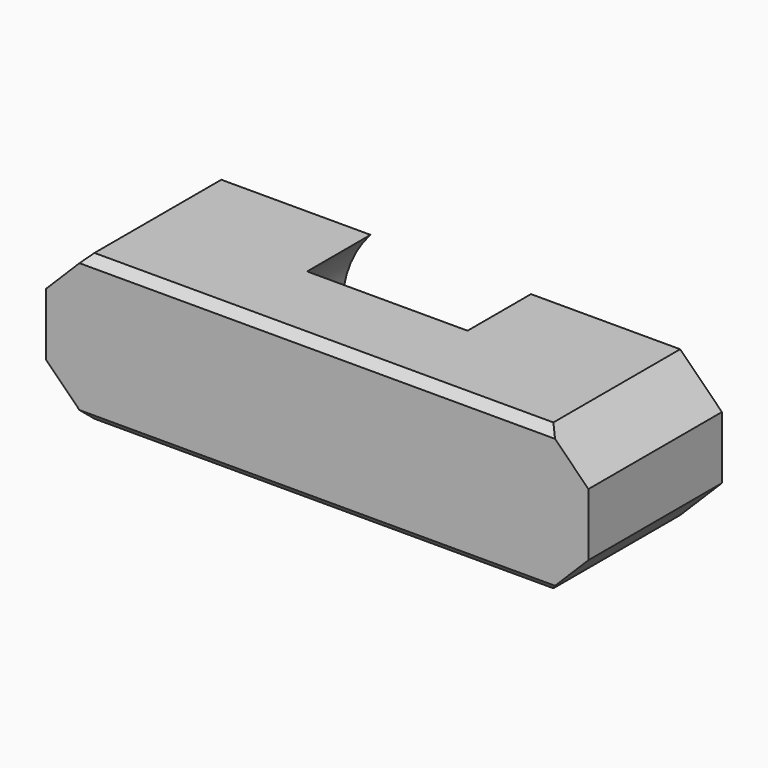
from build123d import *

# Parameters (mm, degrees)
F1_DEPTH = 4
F2_DEPTH = 1.9
F3_SIZE  = 1
F4_SIZE  = 0.2


with BuildPart() as f1:
    # F0 (on Front) → F1 (new body)
    with BuildSketch(Plane.XZ):
        with BuildLine():
            Line((4.5771115477, 0), (0, 0))
            Line((0, 0), (0, -3.5))
            Line((0, -3.5), (4.5771115477, -3.5))
            ThreePointArc((4.5771115477, -3.5), (3.9, -1.75), (4.5771115477, 0))
        make_face()
        with BuildLine():
            Line((8.4228884523, 0), (4.5771115477, 0))
            ThreePointArc((4.5771115477, 0), (3.9, -1.75), (4.5771115477, -3.5))
            Line((4.5771115477, -3.5), (8.4228884523, -3.5))
            ThreePointArc((8.4228884523, -3.5), (8.9248206094, -2.6882137347), (9.1, -1.75))
            ThreePointArc((9.1, -1.75), (8.9248206094, -0.8117862653), (8.4228884523, 0))
        make_face()
        with BuildLine():
            Line((13, 0), (8.4228884523, 0))
            ThreePointArc((8.4228884523, 0), (8.9248206094, -0.8117862653), (9.1, -1.75))
            ThreePointArc((9.1, -1.75), (8.9248206094, -2.6882137347), (8.4228884523, -3.5))
            Line((8.4228884523, -3.5), (13, -3.5))
            Line((13, -3.5), (13, 0))
        make_face()
    extrude(amount=F1_DEPTH)

    # F0 (on Front) → F2 (cut)
    with BuildSketch(Plane.XZ):
        with BuildLine():
            Line((8.4228884523, 0), (4.5771115477, 0))
            ThreePointArc((4.5771115477, 0), (3.9, -1.75), (4.5771115477, -3.5))
            Line((4.5771115477, -3.5), (8.4228884523, -3.5))
            ThreePointArc((8.4228884523, -3.5), (8.9248206094, -2.6882137347), (9.1, -1.75))
            ThreePointArc((9.1, -1.75), (8.9248206094, -0.8117862653), (8.4228884523, 0))
        make_face()
    extrude(amount=F2_DEPTH, mode=Mode.SUBTRACT)

    # F3
    f3_edges = [f1.edges().sort_by_distance(p)[0] for p in [
        (13, -2, -3.5),
        (13, -2, 0),
        (0, -2, -3.5),
        (0, -2, 0),
    ]]
    chamfer(f3_edges, length=F3_SIZE)

    # F4
    f4_edges = [f1.edges().sort_by_distance(p)[0] for p in [
        (6.5, -4, -3.5),
        (6.5, -4, 0),
    ]]
    chamfer(f4_edges, length=F4_SIZE)


solid = f1.part
